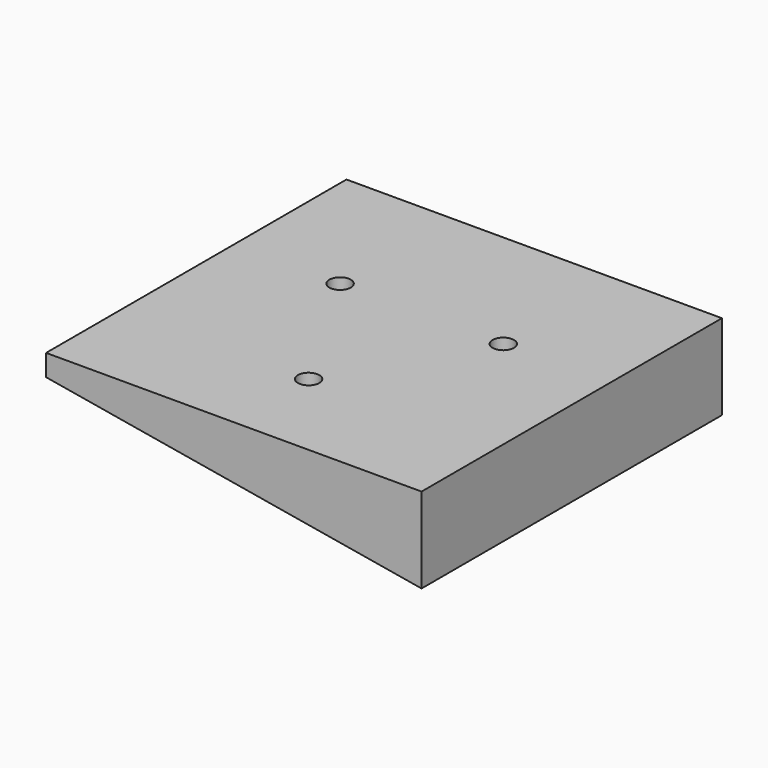
from build123d import *

# Parameters (mm, degrees)
F0_W     = 35
F0_H     = 35
F0_R     = 11.285
F0_R_2   = 1
F1_DEPTH = 2
F3_DEPTH = 35
F4_DEPTH = 25


with BuildPart() as f1:
    # F0 (on Top) → F1 (new body)
    with BuildSketch(Plane.XY):
        Rectangle(F0_W, F0_H)
        Circle(F0_R, mode=Mode.SUBTRACT)
        Circle(F0_R)
        with Locations((0, -8.785)):
            Circle(F0_R_2, mode=Mode.SUBTRACT)
        with Locations((-7.6080331722, 4.3925)):
            Circle(F0_R_2, mode=Mode.SUBTRACT)
        with Locations((7.6080331722, 4.3925)):
            Circle(F0_R_2, mode=Mode.SUBTRACT)
    extrude(amount=F1_DEPTH)

    # F2 (on face) → F3 (join, through all)
    with BuildSketch(Plane.XZ.offset(17.5)):
        Polygon((17.5, -5.9556164779), (17.5, 0), (-17.5, 0), align=None)
    extrude(amount=-F3_DEPTH)

    # F4 (cut): faces of the model
    f4_faces = [f1.faces().sort_by_distance(p)[0] for p in [
        (7.6080331722, 4.3925, 0),
        (0, -8.785, 0),
        (-7.6080331722, 4.3925, 0),
    ]]
    extrude(f4_faces, amount=-F4_DEPTH, mode=Mode.SUBTRACT)


solid = f1.part
